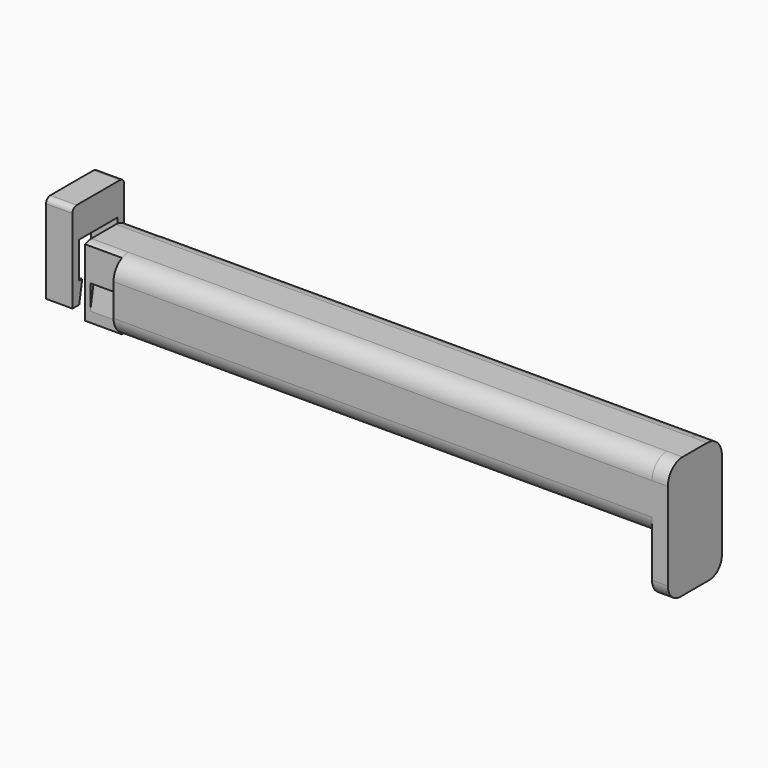
from build123d import *

# Parameters (mm, degrees)
F0_W      = 129.54
F0_H      = 16.256
F1_DEPTH  = 16.637
F2_R      = 4.445
F4_DEPTH  = 3.81
F6_DEPTH  = 8.89
F8_START  = 1.27
F8_DEPTH  = 6.35
F10_START = -1.27
F10_DEPTH = 7.62
F11_R     = 1.27


with BuildPart() as f1:
    # F0 (on Top) → F1 (new body)
    with BuildSketch(Plane.XY):
        Rectangle(F0_W, F0_H)
    extrude(amount=F1_DEPTH)

    # F2
    f2_edges = [f1.edges().sort_by_distance(p)[0] for p in [
        (0, -8.128, 16.637),
        (0, 8.128, 16.637),
        (0, -8.128, 0),
        (0, 8.128, 0),
    ]]
    fillet(f2_edges, radius=F2_R)

    # F3 (on face) → F4 (join)
    with BuildSketch(Plane.YZ.offset(64.77)):
        with BuildLine():
            Line((3.683, 16.637), (-3.683, 16.637))
            ThreePointArc((-3.683, 16.637), (-6.8260896424, 15.3350896424), (-8.128, 12.192))
            Line((-8.128, 12.192), (-8.128, -8.89))
            ThreePointArc((-8.128, -8.89), (-7.0120768363, -11.5840768363), (-4.318, -12.7))
            Line((-4.318, -12.7), (4.318, -12.7))
            ThreePointArc((4.318, -12.7), (7.0120768363, -11.5840768363), (8.128, -8.89))
            Line((8.128, -8.89), (8.128, 12.192))
            ThreePointArc((8.128, 12.192), (6.8260896424, 15.3350896424), (3.683, 16.637))
        make_face()
    extrude(amount=F4_DEPTH)

    # F5 (on face) → F6 (join)
    with BuildSketch(Plane(origin=(-64.77, 0, 0), x_dir=(0, -1, 0), z_dir=(-1, 0, 0))):
        with BuildLine():
            Line((3.683, 16.637), (-3.683, 16.637))
            ThreePointArc((-3.683, 16.637), (-4.6593435017, 16.5284476668), (-5.588, 16.2080926284))
            Line((-5.588, 16.2080926284), (-5.588, 0))
            Line((-5.588, 0), (5.588, 0))
            Line((5.588, 0), (5.588, 16.2080926284))
            ThreePointArc((5.588, 16.2080926284), (4.6593435017, 16.5284476668), (3.683, 16.637))
        make_face()
    extrude(amount=F6_DEPTH)

    # F9 (on face) → F10 (cut)
    with BuildSketch(Plane(origin=(-73.66, 0, 0), x_dir=(0, -1, 0), z_dir=(-1, 0, 0)).offset(F10_START)):
        Polygon((-5.588, 2.4564579041), (-4.543167048, 8.3820000291), (-5.588, 8.3820000291), align=None)
        Polygon((5.588, 8.3820000291), (4.543167048, 8.3820000291), (5.588, 2.4564579041), align=None)
    extrude(amount=-F10_DEPTH, mode=Mode.SUBTRACT)


with BuildPart() as f8:
    # F7 (on face) → F8 (new body)
    with BuildSketch(Plane(origin=(-73.66, 0, 0), x_dir=(0, -1, 0), z_dir=(-1, 0, 0)).offset(F8_START)):
        Polygon((7.7736135572, 24.457), (0, 24.457), (-7.7736135572, 24.457), (-7.7736135572, 3.048), (-5.7416135572, 3.048), (-4.8458724952, 8.128), (-5.7416135572, 8.128), (-5.7416135572, 16.837), (0, 16.837), (5.7416135572, 16.837), (5.7416135572, 8.128), (4.8458724952, 8.128), (5.7416135572, 3.048), (7.7736135572, 3.048), align=None)
    extrude(amount=F8_DEPTH)

    # F11
    f11_edges = [f8.edges().sort_by_distance(p)[0] for p in [
        (-78.105, 7.773614, 24.457),
        (-78.105, -7.773614, 24.457),
    ]]
    fillet(f11_edges, radius=F11_R)


solid = Compound([f1.part, f8.part])
